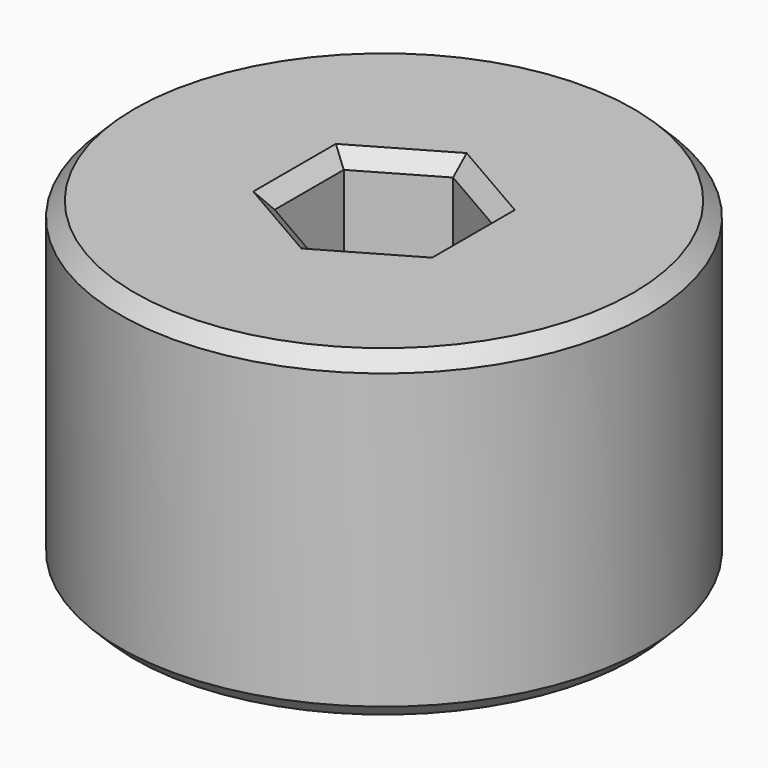
from build123d import *

# Parameters (mm, degrees)
SKETCH_R        = 18
PAD_DEPTH       = 22
POCKET_DEPTH    = 14
SKETCH002_R     = 3.15
POCKET001_DEPTH = 8.001
CHAMFER_SIZE    = 1
CHAMFER001_SIZE = 0.4


with BuildPart() as part:
    # Sketch → Pad (new body)
    with BuildSketch(Plane.XY):
        Circle(SKETCH_R)
    extrude(amount=PAD_DEPTH)

    # Sketch001 (on Face3 of Pad) → Pocket (cut)
    with BuildSketch(Plane.XY.offset(22)):
        Polygon((0, 5.888973), (-5.1, 2.944486), (-5.1, -2.944486), (0, -5.888973), (5.1, -2.944486), (5.1, 2.944486), align=None)
    extrude(amount=-POCKET_DEPTH, mode=Mode.SUBTRACT)

    # Sketch002 (on Face10 of Pocket) → Pocket001 (cut, through all)
    with BuildSketch(Plane.XY.offset(8)):
        Circle(SKETCH002_R)
    extrude(amount=-POCKET001_DEPTH, mode=Mode.SUBTRACT)

    # Chamfer
    chamfer_edges = [part.edges().sort_by_distance(p)[0] for p in [
        (-18, 0, 0),
        (-18, 0, 22),
        (-2.55, 4.41673, 22),
        (-5.1, 0, 22),
        (-2.55, -4.41673, 22),
        (2.55, -4.41673, 22),
        (5.1, 0, 22),
        (2.55, 4.41673, 22),
    ]]
    chamfer(chamfer_edges, length=CHAMFER_SIZE)

    # Chamfer001
    chamfer001_edges = [part.edges().sort_by_distance(p)[0] for p in [
        (-3.15, 0, 0),
    ]]
    chamfer(chamfer001_edges, length=CHAMFER001_SIZE)


solid = part.part
